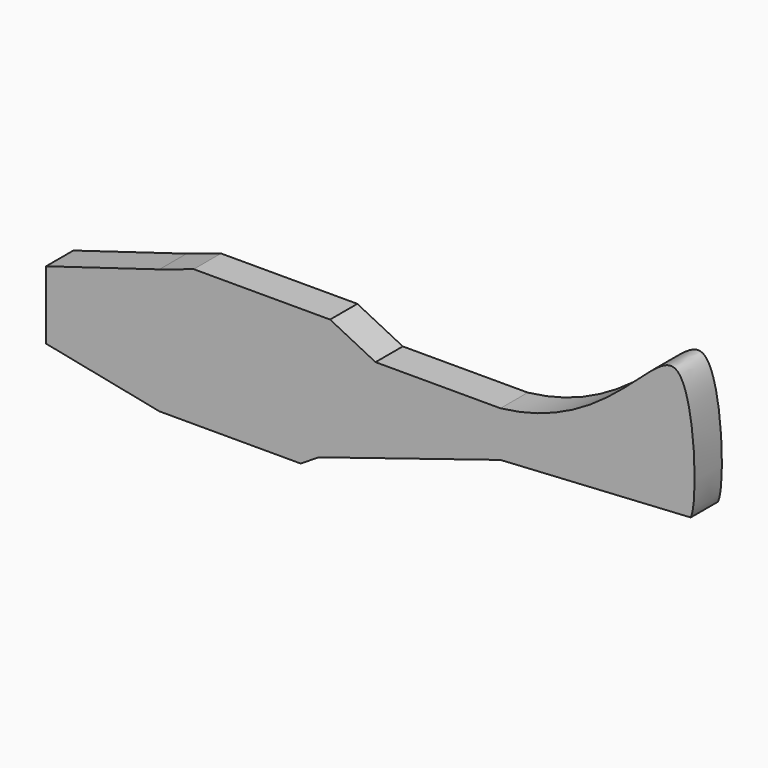
from build123d import *

# Parameters (mm, degrees)
F1_DEPTH = 19.05


with BuildPart() as f1:
    # F0 (on Front) → F1 (new body)
    with BuildSketch(Plane.XZ):
        with BuildLine():
            Line((-180.975, -9.525), (-180.975, -47.625))
            Line((-180.975, -47.625), (-117.645919323, -60.325))
            Line((-117.645919323, -60.325), (-38.6391244829, -60.325))
            Line((-38.6391244829, -60.325), (-28.575, -53.975))
            Line((-28.575, -53.975), (73.025, -22.225))
            Line((73.025, -22.225), (179.3702135329, -15.9693992039))
            add(Edge.make_bspline(
                [(73.025, 3.175), (134.9485963583, 10.0893061608), (178.0163792754, 104.2725925124), (183.4994292865, -2.6298206048), (179.7819191004, -14.9849983714), (179.3702135329, -15.9693992039)],
                knots=[0, 0, 0, 0, 0.4847055711, 0.8608981797, 0.902836261, 0.902836261, 0.902836261, 0.902836261], degree=3))
            Line((73.025, 3.175), (3.175, 3.175))
            Line((3.175, 3.175), (-22.225, 15.875))
            Line((-22.225, 15.875), (-98.425, 15.875))
            Line((-98.425, 15.875), (-117.645919323, 9.525))
            Line((-117.645919323, 9.525), (-180.975, -9.525))
        make_face()
    extrude(amount=F1_DEPTH)


solid = f1.part
